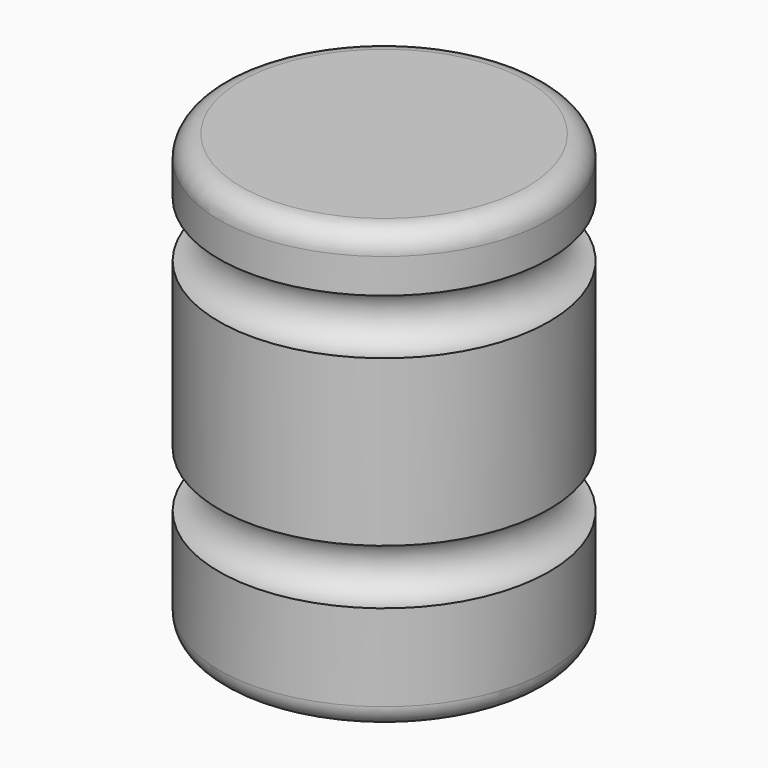
from build123d import *

# Parameters (mm, degrees)
F2_R     = 9.525
F3_DEPTH = 25.4
F4_DEPTH = 25.4
F5_R     = 5.08
F6_R     = 5.08


with BuildPart() as f1:
    # F0 (on Front) → F1 (revolve)
    with BuildSketch(Plane.XZ):
        with BuildLine():
            Line((-38.1, 0), (0, 0))
            Line((0, 0), (0, 25.063555))
            ThreePointArc((0, 25.063555), (-6.35, 31.413555), (0, 37.763555))
            Line((0, 37.763555), (0, 75.857493))
            ThreePointArc((0, 75.857493), (-6.35, 82.207493), (0, 88.557493))
            Line((0, 88.557493), (0, 101.6))
            Line((0, 101.6), (-38.1, 101.6))
            Line((-38.1, 101.6), (-38.1, 0))
        make_face()
    revolve(axis=Axis((-38.1, 0, 50.8), (0, 0, 1)))

    # F2 (on Front) → F3 (cut)
    with BuildSketch(Plane.XZ):
        with Locations((-37.315723, 56.587745)):
            Circle(F2_R)
    extrude(amount=-F3_DEPTH, mode=Mode.SUBTRACT)

    # F2 (on Front) → F4 (cut)
    with BuildSketch(Plane.XZ):
        with Locations((-37.315723, 56.587745)):
            Circle(F2_R)
    extrude(amount=-F4_DEPTH, mode=Mode.SUBTRACT)

    # F5
    f5_edges = [f1.edges().sort_by_distance(p)[0] for p in [
        (-76.2, 0, 101.6),
    ]]
    fillet(f5_edges, radius=F5_R)

    # F6
    f6_edges = [f1.edges().sort_by_distance(p)[0] for p in [
        (-76.2, 0, 0),
    ]]
    fillet(f6_edges, radius=F6_R)


solid = f1.part
